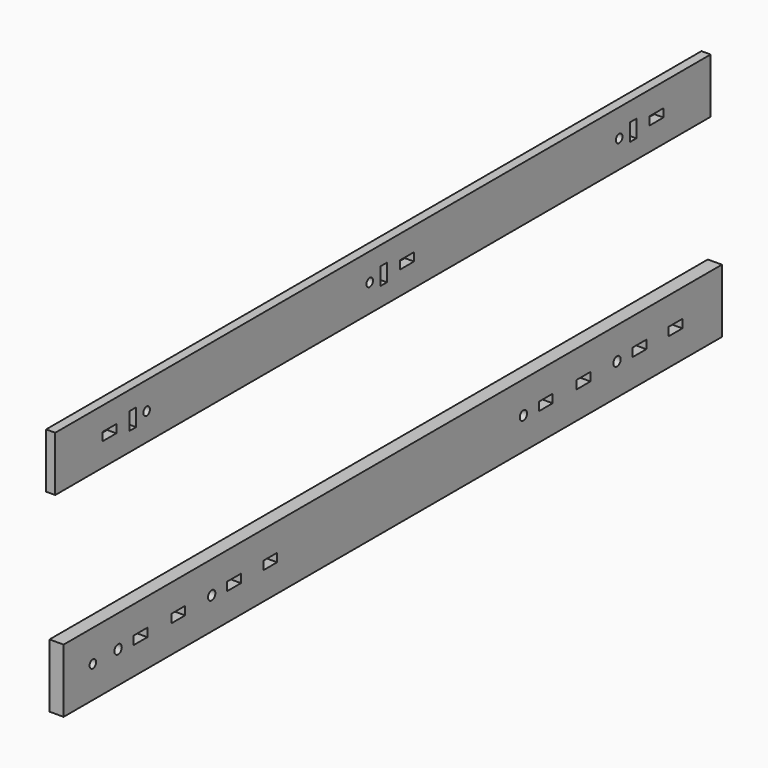
from build123d import *

# Parameters (mm, degrees)
F0_W     = 450
F0_H     = 34.8
F0_R     = 2.25
F0_R_2   = 2.5
F0_W_2   = 9.4
F0_H_2   = 4.6
F2_DEPTH = 7.7
F1_W     = 448
F1_H     = 30
F1_W_2   = 9.5
F1_H_2   = 4.5
F1_W_3   = 4.5
F1_H_3   = 9.5
F1_R     = 2.25
F3_DEPTH = 5


with BuildPart() as f2:
    # F0 (on Right) → F2 (new body)
    with BuildSketch(Plane.YZ):
        with Locations((-41.335793, -64.822553)):
            Rectangle(F0_W, F0_H)
        with Locations((-246.335793, -64.822553)):
            Circle(F0_R, mode=Mode.SUBTRACT)
        with Locations((-229.085793, -64.822553)):
            Circle(F0_R_2, mode=Mode.SUBTRACT)
        with Locations((-213.785793, -64.822553)):
            Rectangle(F0_W_2, F0_H_2, mode=Mode.SUBTRACT)
        with Locations((-187.985793, -64.822553)):
            Rectangle(F0_W_2, F0_H_2, mode=Mode.SUBTRACT)
        with Locations((-165.085793, -64.822553)):
            Circle(F0_R_2, mode=Mode.SUBTRACT)
        with Locations((-149.785793, -64.822553)):
            Rectangle(F0_W_2, F0_H_2, mode=Mode.SUBTRACT)
        with Locations((-125.085793, -64.822553)):
            Rectangle(F0_W_2, F0_H_2, mode=Mode.SUBTRACT)
        with Locations((63.264207, -64.822553)):
            Rectangle(F0_W_2, F0_H_2, mode=Mode.SUBTRACT)
        with Locations((151.964207, -64.822553)):
            Rectangle(F0_W_2, F0_H_2, mode=Mode.SUBTRACT)
        with Locations((47.964207, -64.822553)):
            Circle(F0_R_2, mode=Mode.SUBTRACT)
        with Locations((89.064207, -64.822553)):
            Rectangle(F0_W_2, F0_H_2, mode=Mode.SUBTRACT)
        with Locations((111.964207, -64.822553)):
            Circle(F0_R_2, mode=Mode.SUBTRACT)
        with Locations((127.264207, -64.822553)):
            Rectangle(F0_W_2, F0_H_2, mode=Mode.SUBTRACT)
    extrude(amount=F2_DEPTH)


with BuildPart() as f3:
    # F1 (on Right) → F3 (new body)
    with BuildSketch(Plane.YZ):
        with Locations((-44.70029, 39.648528)):
            Rectangle(F1_W, F1_H)
        with Locations((-231.70029, 39.648528)):
            Rectangle(F1_W_2, F1_H_2, mode=Mode.SUBTRACT)
        with Locations((-215.70029, 39.648528)):
            Rectangle(F1_W_3, F1_H_3, mode=Mode.SUBTRACT)
        with Locations((-206.20029, 39.648528)):
            Circle(F1_R, mode=Mode.SUBTRACT)
        with Locations((-53.70029, 39.648528)):
            Circle(F1_R, mode=Mode.SUBTRACT)
        with Locations((-44.20029, 39.648528)):
            Rectangle(F1_W_3, F1_H_3, mode=Mode.SUBTRACT)
        with Locations((-28.20029, 39.648528)):
            Rectangle(F1_W_2, F1_H_2, mode=Mode.SUBTRACT)
        with Locations((116.79971, 39.648528)):
            Circle(F1_R, mode=Mode.SUBTRACT)
        with Locations((126.29971, 39.648528)):
            Rectangle(F1_W_3, F1_H_3, mode=Mode.SUBTRACT)
        with Locations((142.29971, 39.648528)):
            Rectangle(F1_W_2, F1_H_2, mode=Mode.SUBTRACT)
    extrude(amount=F3_DEPTH)


solid = Compound([f2.part, f3.part])
